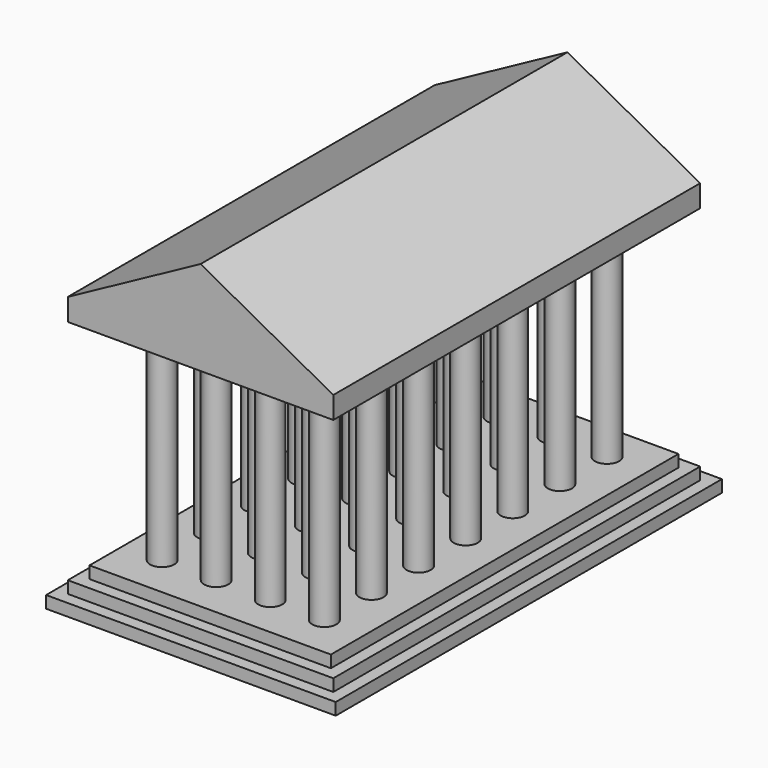
from build123d import *

# Parameters (mm, degrees)
F0_W      = 76.2
F0_H      = 127
F1_DEPTH  = 3.175
F2_W      = 69.85
F2_H      = 120.65
F3_DEPTH  = 3.175
F4_W      = 63.5
F4_H      = 114.3
F5_DEPTH  = 3.175
F6_R      = 3.175
F7_DEPTH  = 56.642
F8_W      = 69.85
F8_H      = 120.65
F9_DEPTH  = 3.175
F9_FACE_W = 69.85
F9_FACE_H = 120.65
F10_DEPTH = 21.59
F12_DEPTH = 123.826


with BuildPart() as f1:
    # F0 (on Top) → F1 (new body)
    with BuildSketch(Plane.XY):
        Rectangle(F0_W, F0_H)
    extrude(amount=F1_DEPTH)

    # F2 (on face) → F3 (join)
    with BuildSketch(Plane.XY.offset(3.175)):
        Rectangle(F2_W, F2_H)
    extrude(amount=F3_DEPTH)

    # F4 (on face) → F5 (join)
    with BuildSketch(Plane.XY.offset(6.35)):
        Rectangle(F4_W, F4_H)
    extrude(amount=F5_DEPTH)

    # F6 (on face) → F7 (join)
    with BuildSketch(Plane.XY.offset(9.525)):
        with Locations((-21.59, 46.99)):
            Circle(F6_R)
        with Locations((-21.59, 31.496)):
            Circle(F6_R)
        with Locations((-21.59, 16.002)):
            Circle(F6_R)
        with Locations((-21.59, 0.508)):
            Circle(F6_R)
        with Locations((-21.59, -14.986)):
            Circle(F6_R)
        with Locations((-21.59, -30.48)):
            Circle(F6_R)
        with Locations((-21.59, -45.974)):
            Circle(F6_R)
        with Locations((-7.366, 46.99)):
            Circle(F6_R)
        with Locations((-7.366, 31.496)):
            Circle(F6_R)
        with Locations((-7.366, 16.002)):
            Circle(F6_R)
        with Locations((-7.366, 0.508)):
            Circle(F6_R)
        with Locations((-7.366, -14.986)):
            Circle(F6_R)
        with Locations((-7.366, -30.48)):
            Circle(F6_R)
        with Locations((-7.366, -45.974)):
            Circle(F6_R)
        with Locations((6.858, 46.99)):
            Circle(F6_R)
        with Locations((6.858, 31.496)):
            Circle(F6_R)
        with Locations((6.858, 16.002)):
            Circle(F6_R)
        with Locations((6.858, 0.508)):
            Circle(F6_R)
        with Locations((6.858, -14.986)):
            Circle(F6_R)
        with Locations((6.858, -30.48)):
            Circle(F6_R)
        with Locations((6.858, -45.974)):
            Circle(F6_R)
        with Locations((21.082, 46.99)):
            Circle(F6_R)
        with Locations((21.082, 31.496)):
            Circle(F6_R)
        with Locations((21.082, 16.002)):
            Circle(F6_R)
        with Locations((21.082, 0.508)):
            Circle(F6_R)
        with Locations((21.082, -14.986)):
            Circle(F6_R)
        with Locations((21.082, -30.48)):
            Circle(F6_R)
        with Locations((21.082, -45.974)):
            Circle(F6_R)
    extrude(amount=F7_DEPTH)

    # F8 (on face) → F9 (join)
    with BuildSketch(Plane.XY.offset(66.167)):
        Rectangle(F8_W, F8_H)
    extrude(amount=F9_DEPTH)

    # F9_face (on face) → F10 (join)
    with BuildSketch(Plane.XY.offset(69.342)):
        Rectangle(F9_FACE_W, F9_FACE_H)
    extrude(amount=F10_DEPTH)

    # F11 (on face) → F12 (cut, through all)
    with BuildSketch(Plane.XZ.offset(60.325)):
        Polygon((34.925, 90.932), (0, 90.932), (34.925, 71.966983), align=None)
        Polygon((-34.925, 71.966983), (0, 90.932), (-34.925, 90.932), align=None)
    extrude(amount=-F12_DEPTH, mode=Mode.SUBTRACT)


solid = f1.part
